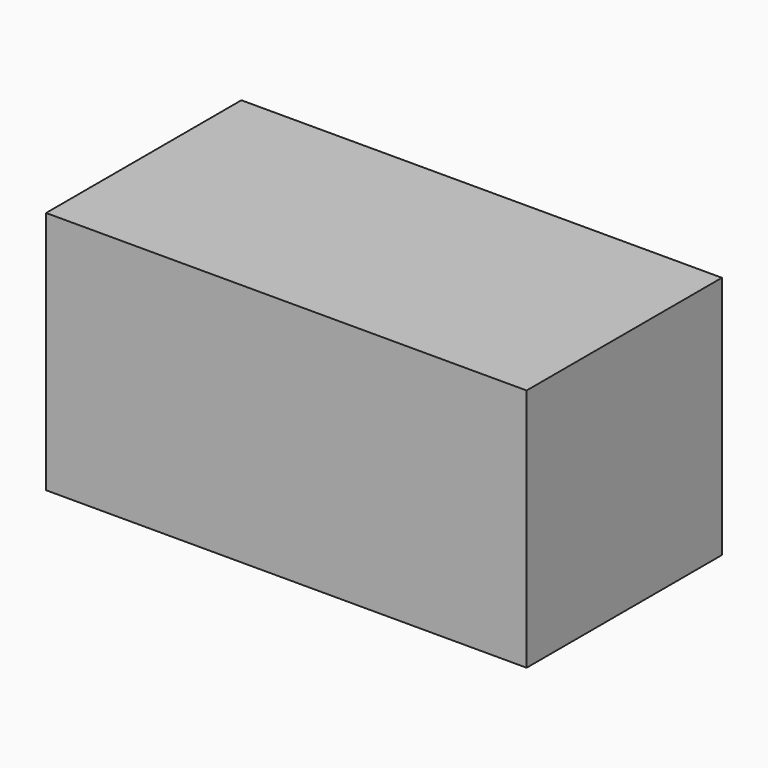
from build123d import *

# Parameters (mm, degrees)
SKETCH_W  = 200
SKETCH_H  = 101.6
PAD_DEPTH = 101.6


with BuildPart() as part:
    # Sketch → Pad (new body)
    with BuildSketch(Plane.XY):
        with Locations((100, 50.8)):
            Rectangle(SKETCH_W, SKETCH_H)
    extrude(amount=PAD_DEPTH)


solid = part.part
